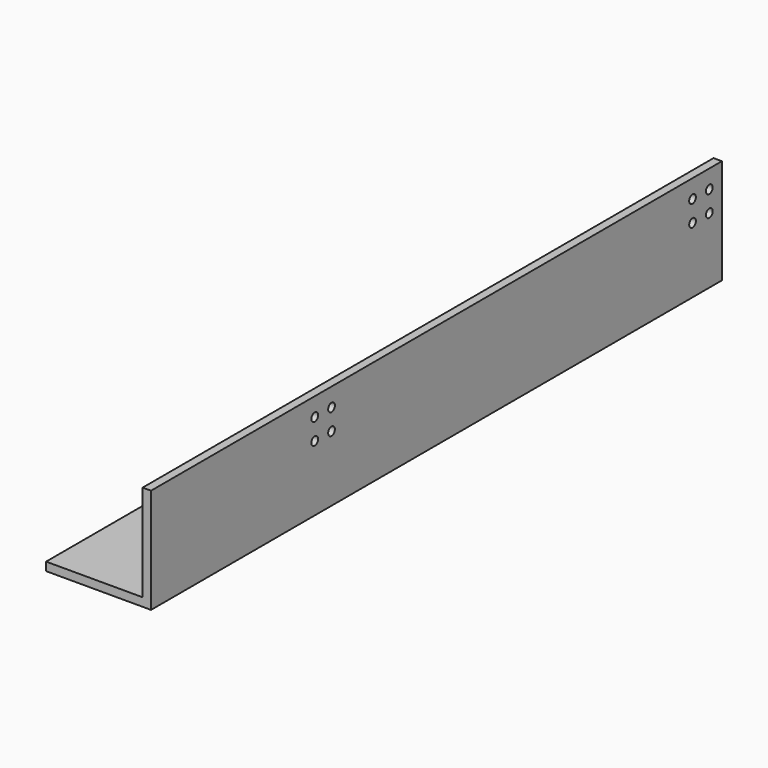
from build123d import *

# Parameters (mm, degrees)
F0_W           = 4
F0_H           = 46
F1_DEPTH       = 125
F4_D           = 4
F4_DEPTH       = 15
F4_TIP         = 1.2017212381
F4_ON_F2_D     = 4
F4_ON_F2_DEPTH = 15
F4_ON_F2_TIP   = 1.2017212381
F6_DEPTH       = 90


with BuildPart() as f1:
    # F0 (on Front) → F1 (new body)
    with BuildSketch(Plane.XZ):
        with Locations((2, 23)):
            Rectangle(F0_W, F0_H)
        Polygon((4, 0), (0, 0), (-46, 0), (-46, -4), (4, -4), align=None)
    extrude(amount=F1_DEPTH)

    # F4
    with Locations(Plane.YZ.offset(4)):
        with Locations((-117.5, 37.25), (-107.5, 37.25), (-107.5, 27.25), (-117.5, 27.25)):
            Hole(F4_D / 2, depth=F4_DEPTH)
            with Locations((0, 0, -(F4_DEPTH + F4_TIP / 2))):  # 118° drill point
                Cone(0, F4_D / 2, F4_TIP, mode=Mode.SUBTRACT)

    # F4 on F2
    with Locations(Plane(origin=(0, 0, -4), x_dir=(1, 0, 0), z_dir=(0, 0, -1))):
        with Locations((-27.25, 117.5), (-37.25, 117.5), (-37.25, 107.5), (-27.25, 107.5)):
            Hole(F4_ON_F2_D / 2, depth=F4_ON_F2_DEPTH)
            with Locations((0, 0, -(F4_ON_F2_DEPTH + F4_ON_F2_TIP / 2))):  # 118° drill point
                Cone(0, F4_ON_F2_D / 2, F4_ON_F2_TIP, mode=Mode.SUBTRACT)

    # F5: F1 across face


with BuildPart() as f1_1:
    add(f1.part)
    add(f1.part.mirror(Plane(origin=(-9.9791666667, 0, 9.9791666667), x_dir=(1, 0, 0), z_dir=(0, 1, 0))))

    # F6 (add): a face of the model
    f6_faces = [f1_1.faces().sort_by_distance(p)[0] for p in [
        (0.7071067812, -125, 23),
    ]]
    extrude(f6_faces, amount=F6_DEPTH)


solid = f1_1.part
